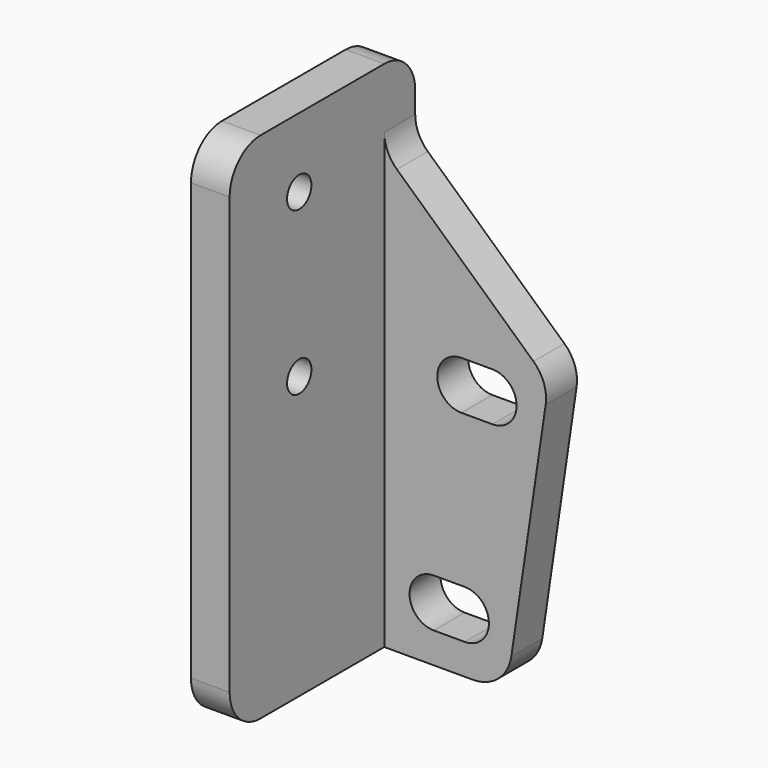
from build123d import *

# Parameters (mm, degrees)
F1_DEPTH = 6.35
F3_DEPTH = 31.75
F5_DEPTH = 25.4
F6_R     = 2.5
F7_DEPTH = 25.4
F8_R     = 6.35


with BuildPart() as f1:
    # F0 (on Front) → F1 (new body)
    with BuildSketch(Plane.XZ):
        Polygon((0, 84.328), (0, 0), (26.416, 0), (33.3502, 46.99), (6.35, 71.628), (6.35, 84.328), align=None)
    extrude(amount=F1_DEPTH)

    # F2 (on face) → F3 (join)
    with BuildSketch(Plane.XZ.offset(6.35)):
        Polygon((0, 84.328), (0, 0), (6.35, 0), (6.35, 71.628), (6.35, 84.328), align=None)
    extrude(amount=F3_DEPTH)

    # F4 (on face) → F5 (cut)
    with BuildSketch(Plane.XZ.offset(6.35)):
        with BuildLine():
            Line((19.558, 12.9921), (14.478, 12.9921))
            ThreePointArc((14.478, 12.9921), (10.5029, 9.017), (14.478, 5.0419))
            Line((14.478, 5.0419), (19.558, 5.0419))
            ThreePointArc((19.558, 5.0419), (23.5331, 9.017), (19.558, 12.9921))
        make_face()
        with BuildLine():
            Line((24.1046, 45.9359), (19.0246, 45.9359))
            ThreePointArc((19.0246, 45.9359), (15.0495, 41.9608), (19.0246, 37.9857))
            Line((19.0246, 37.9857), (24.1046, 37.9857))
            ThreePointArc((24.1046, 37.9857), (28.0797, 41.9608), (24.1046, 45.9359))
        make_face()
    extrude(amount=-F5_DEPTH, mode=Mode.SUBTRACT)

    # F6 (on face) → F7 (cut)
    with BuildSketch(Plane.YZ.offset(6.35)):
        with Locations((-23.8125, 46.228)):
            Circle(F6_R)
        with Locations((-23.8125, 72.898)):
            Circle(F6_R)
    extrude(amount=-F7_DEPTH, mode=Mode.SUBTRACT)

    # F8
    f8_edges = [f1.edges().sort_by_distance(p)[0] for p in [
        (26.416, -3.175, 0),
        (33.3502, -3.175, 46.99),
        (6.35, -3.175, 71.628),
        (3.175, 0, 84.328),
        (3.175, -38.1, 84.328),
        (3.175, -38.1, 0),
    ]]
    fillet(f8_edges, radius=F8_R)


solid = f1.part
